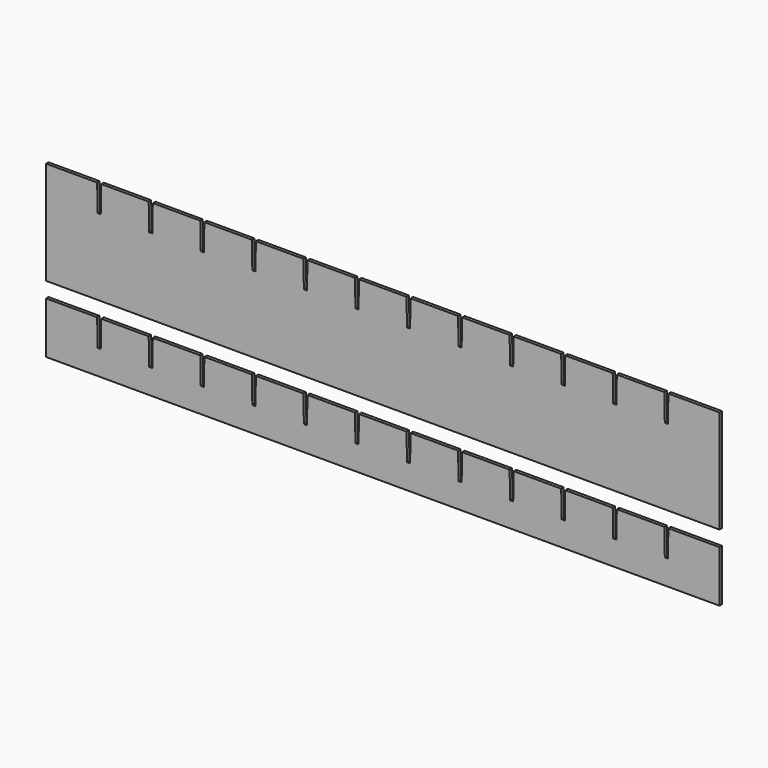
from build123d import *

# Parameters (mm, degrees)
F1_DEPTH = 3
F3_DEPTH = 3


with BuildPart() as f1:
    # F0 (on Front) → F1 (new body)
    with BuildSketch(Plane.XZ):
        Polygon((0, 100), (0, 0), (653, 0), (653, 100), (603.5, 100), (603, 74), (600, 74), (599.5, 100), (553.5, 100), (553, 74), (550, 74), (549.5, 100), (503.5, 100), (503, 74), (500, 74), (499.5, 100), (453.5, 100), (453, 74), (450, 74), (449.5, 100), (403.5, 100), (403, 74), (400, 74), (399.5, 100), (353.5, 100), (353, 74), (350, 74), (349.5, 100), (303.5, 100), (303, 74), (300, 74), (299.5, 100), (253.5, 100), (253, 74), (250, 74), (249.5, 100), (203.5, 100), (203, 74), (200, 74), (199.5, 100), (153.5, 100), (153, 74), (150, 74), (149.5, 100), (103.5, 100), (103, 74), (100, 74), (99.5, 100), (53.5, 100), (53, 74), (50, 74), (49.5, 100), align=None)
    extrude(amount=F1_DEPTH)


with BuildPart() as f3:
    # F2 (on Front) → F3 (new body)
    with BuildSketch(Plane.XZ):
        Polygon((0, -15), (0, -65), (653, -65), (653, -15), (603.5, -15), (603, -41), (600, -41), (599.5, -15), (553.5, -15), (553, -41), (550, -41), (549.5, -15), (503.5, -15), (503, -41), (500, -41), (499.5, -15), (453.5, -15), (453, -41), (450, -41), (449.5, -15), (403.5, -15), (403, -41), (400, -41), (399.5, -15), (353.5, -15), (353, -41), (350, -41), (349.5, -15), (303.5, -15), (303, -41), (300, -41), (299.5, -15), (253.5, -15), (253, -41), (250, -41), (249.5, -15), (203.5, -15), (203, -41), (200, -41), (199.5, -15), (153.5, -15), (153, -41), (150, -41), (149.5, -15), (103.5, -15), (103, -41), (100, -41), (99.5, -15), (53.5, -15), (53, -41), (50, -41), (49.5, -15), align=None)
    extrude(amount=F3_DEPTH)


solid = Compound([f1.part, f3.part])
